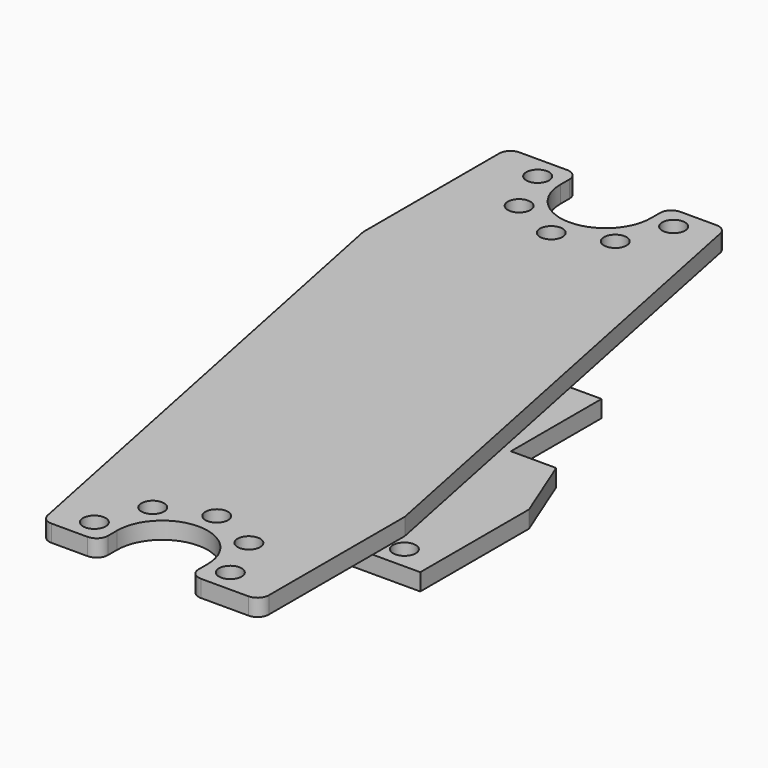
from build123d import *

# Parameters (mm, degrees)
F0_W     = 28.8
F0_H     = 28
F0_R     = 1
F1_DEPTH = 1.5
F3_DEPTH = 1.5
F5_R     = 1
F6_DEPTH = 1.5
F8_DEPTH = 1.5
F9_R     = 1


with BuildPart() as f1:
    # F0 (on Top) → F1 (new body)
    with BuildSketch(Plane.XY):
        Rectangle(F0_W, F0_H)
        with Locations((-3, -12)):
            Circle(F0_R, mode=Mode.SUBTRACT)
        with Locations((11.4, -12)):
            Circle(F0_R, mode=Mode.SUBTRACT)
        with Locations((-11.4, 12)):
            Circle(F0_R, mode=Mode.SUBTRACT)
        with Locations((3, 12)):
            Circle(F0_R, mode=Mode.SUBTRACT)
    extrude(amount=F1_DEPTH)

    # F2 (on face) → F3 (cut, through all)
    with BuildSketch(Plane.XY.offset(1.5)):
        Polygon((-12, -4), (-14.4, 2), (-14.4, -14), (-8, -14), (-8, -4), align=None)
        Polygon((14.4, -2), (14.4, 14), (8, 14), (8, 4), (12, 4), align=None)
    extrude(amount=-F3_DEPTH, mode=Mode.SUBTRACT)


with BuildPart() as f6:
    # F5 (on offset) → F6 (new body)
    with BuildSketch(Plane.XY.offset(5)):
        with BuildLine():
            Line((-8.2, 31.7045451068), (-14.4, 31.7045451068))
            Line((-14.4, 31.7045451068), (-14.4, -31.7045451068))
            Line((-14.4, -31.7045451068), (0.2, -31.7045451068))
            Line((0.2, -31.7045451068), (0.2, -29.7045451068))
            ThreePointArc((0.2, -29.7045451068), (4.2, -25.7045451068), (8.2, -29.7045451068))
            Line((8.2, -29.7045451068), (8.2, -31.7045451068))
            Line((8.2, -31.7045451068), (14.4, -31.7045451068))
            Line((14.4, -31.7045451068), (14.4, 31.7045451068))
            Line((14.4, 31.7045451068), (-0.2, 31.7045451068))
            Line((-0.2, 31.7045451068), (-0.2, 29.7045451068))
            ThreePointArc((-0.2, 29.7045451068), (-4.2, 25.7045451068), (-8.2, 29.7045451068))
            Line((-8.2, 29.7045451068), (-8.2, 31.7045451068))
        make_face()
        with Locations((-1.8, -29.7045451068)):
            Circle(F5_R, mode=Mode.SUBTRACT)
        with Locations((-0.0426406871, -25.4619044196)):
            Circle(F5_R, mode=Mode.SUBTRACT)
        with Locations((4.2, -23.7045451068)):
            Circle(F5_R, mode=Mode.SUBTRACT)
        with Locations((10.2, -29.7045451068)):
            Circle(F5_R, mode=Mode.SUBTRACT)
        with Locations((8.4426406871, -25.4619044196)):
            Circle(F5_R, mode=Mode.SUBTRACT)
        with Locations((-8.4426406871, 25.4619044196)):
            Circle(F5_R, mode=Mode.SUBTRACT)
        with Locations((-10.2, 29.7045451068)):
            Circle(F5_R, mode=Mode.SUBTRACT)
        with Locations((-4.2, 23.7045451068)):
            Circle(F5_R, mode=Mode.SUBTRACT)
        with Locations((0.0426406871, 25.4619044196)):
            Circle(F5_R, mode=Mode.SUBTRACT)
        with Locations((1.8, 29.7045451068)):
            Circle(F5_R, mode=Mode.SUBTRACT)
    extrude(amount=F6_DEPTH)

    # F7 (on face) → F8 (cut, through all)
    with BuildSketch(Plane.XY.offset(6.5)):
        Polygon((-4.8, -31.7045451068), (-14.4, 15.7045451068), (-14.4, -31.7045451068), align=None)
        Polygon((4.8, 31.7045451068), (14.4, -15.7045451068), (14.4, 31.7045451068), align=None)
    extrude(amount=-F8_DEPTH, mode=Mode.SUBTRACT)

    # F9
    f9_edges = [f6.edges().sort_by_distance(p)[0] for p in [
        (-4.8, -31.704545, 5.75),
        (0.2, -31.704545, 5.75),
        (8.2, -31.704545, 5.75),
        (14.4, -31.704545, 5.75),
        (4.8, 31.704545, 5.75),
        (-0.2, 31.704545, 5.75),
        (-8.2, 31.704545, 5.75),
        (-14.4, 31.704545, 5.75),
    ]]
    fillet(f9_edges, radius=F9_R)


solid = Compound([f1.part, f6.part])
